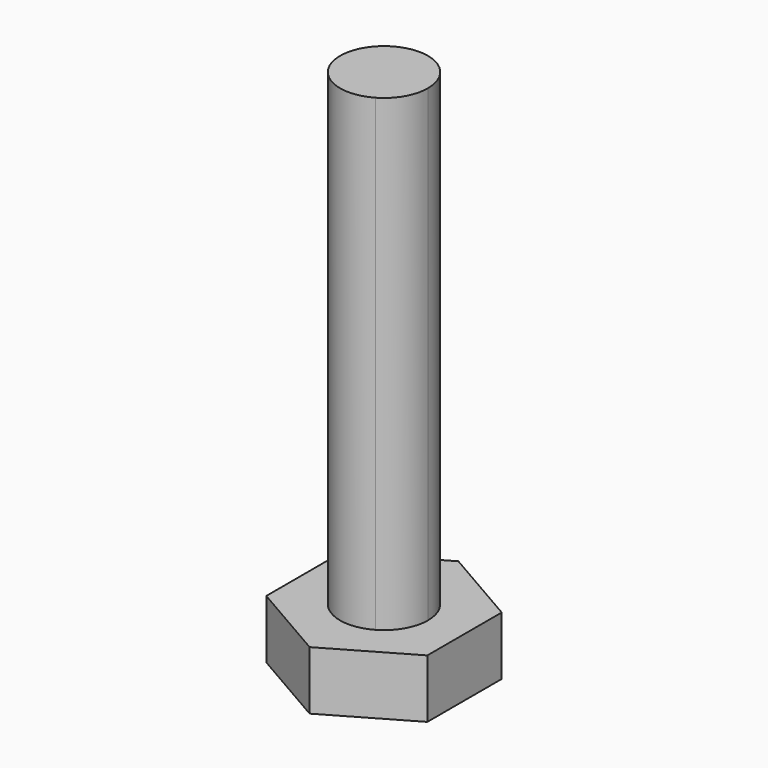
from build123d import *

# Parameters (mm, degrees)
F1_DEPTH = 2
F3_DEPTH = 16


with BuildPart() as f1:
    # F0 (on Top) → F1 (new body)
    with BuildSketch(Plane.XY):
        Polygon((2.75, -1.5877132403), (2.75, 1.5877132403), (0, 3.1754264805), (-2.75, 1.5877132403), (-2.75, -1.5877132403), (0, -3.1754264805), align=None)
    extrude(amount=F1_DEPTH)

    # F2 (on face) → F3 (join)
    with BuildSketch(Plane.XY.offset(2)):
        with BuildLine():
            ThreePointArc((1.5, 0), (0.75, 1.2990381057), (-0.75, 1.2990381057))
            Line((-0.75, 1.2990381057), (0.75, -1.2990381057))
            ThreePointArc((0.75, -1.2990381057), (1.2990381057, -0.75), (1.5, 0))
        make_face()
        with BuildLine():
            Line((0.75, -1.2990381057), (-0.75, 1.2990381057))
            ThreePointArc((-0.75, 1.2990381057), (-1.2990381057, -0.75), (0.75, -1.2990381057))
        make_face()
    extrude(amount=F3_DEPTH)


solid = f1.part
